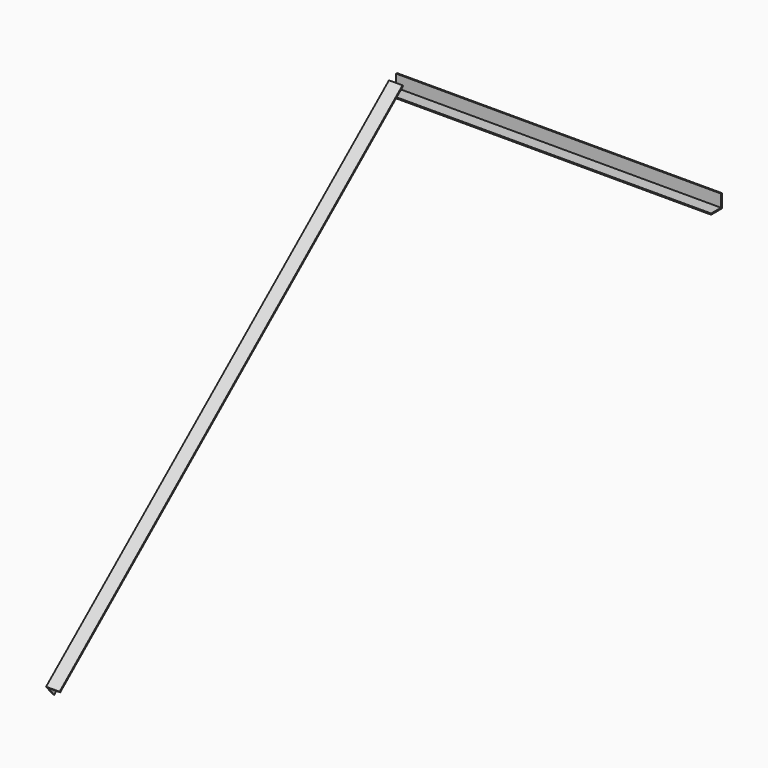
from build123d import *

# Parameters (mm, degrees)
F1_DEPTH = 1828.8
F4_DEPTH = 3149.6


with BuildPart() as f1:
    # F0 (on Right) → F1 (new body)
    with BuildSketch(Plane.YZ):
        Polygon((-76.2, 0), (0, 0), (0, 76.2), (-6.35, 76.2), (-6.35, 6.35), (-76.2, 6.35), align=None)
    extrude(amount=F1_DEPTH)

    # F3 (on face) → F4 (join)
    with BuildSketch(Plane(origin=(0, 0, 0), x_dir=(-1, 0, 0), z_dir=(0, 0.7660444431, 0.6427876097))):
        Polygon((0, 0), (6.35, 0), (6.35, 76.2), (-69.85, 76.2), (-69.85, 69.85), (0, 69.85), align=None)
    extrude(amount=-F4_DEPTH)


solid = f1.part
